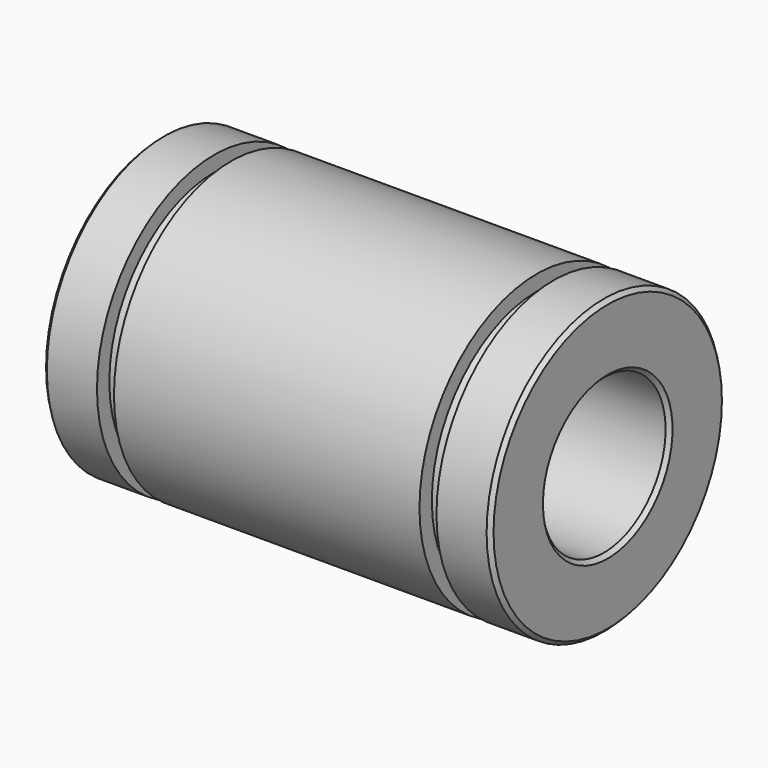
from build123d import *

# Parameters (mm, degrees)
F2_SIZE = 0.25


with BuildPart() as f1:
    # F0 (on Top) → F1 (revolve)
    with BuildSketch(Plane.XY):
        Polygon((0, -5.8332120482), (-29, -5.8332120482), (-29, -10.3332120482), (-25.5, -10.3332120482), (-25.5, -9.3332120482), (-24.4, -9.3332120482), (-24.4, -10.3332120482), (-4.6, -10.3332120482), (-4.6, -9.3332120482), (-3.5, -9.3332120482), (-3.5, -10.3332120482), (0, -10.3332120482), align=None)
    revolve(axis=Axis((-14.5, -0.8332120482, 0), (-1, 0, 0)))

    # F2
    f2_edges = [f1.edges().sort_by_distance(p)[0] for p in [
        (0, 8.666788, 0),
        (-29, 8.666788, 0),
        (-29, 4.166788, 0),
        (0, 4.166788, 0),
    ]]
    chamfer(f2_edges, length=F2_SIZE)


solid = f1.part
